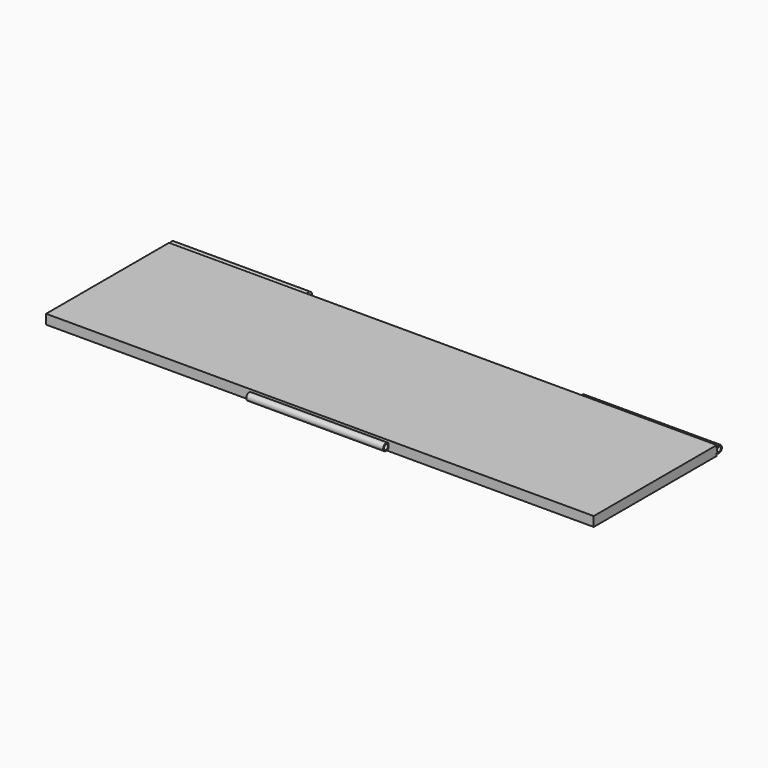
from build123d import *

# Parameters (mm, degrees)
F0_W     = 1447.8
F0_H     = 406.4
F6_DEPTH = 12.7
F1_R     = 9.525
F1_R_2   = 6.35
F7_DEPTH = 180.975
F5_R     = 9.525
F5_R_2   = 6.35
F8_DEPTH = 361.95
F4_R     = 12.7
F4_R_2   = 6.35
F9_DEPTH = 361.95


with BuildPart() as f6:
    # F0 (on Top) → F6 (new body, symmetric)
    with BuildSketch(Plane.XY):
        Rectangle(F0_W, F0_H)
    extrude(amount=F6_DEPTH, both=True)

    # F1 (on Right) → F7 (join, symmetric)
    with BuildSketch(Plane.YZ):
        with Locations((-210.82, 0)):
            Circle(F1_R)
        with Locations((-210.82, 0)):
            Circle(F1_R_2, mode=Mode.SUBTRACT)
    extrude(amount=F7_DEPTH, both=True)

    # F5 (on offset) → F8 (join)
    with BuildSketch(Plane.YZ.offset(361.95)):
        with Locations((210.82, 0)):
            Circle(F5_R)
        with Locations((210.82, 0)):
            Circle(F5_R_2, mode=Mode.SUBTRACT)
    extrude(amount=F8_DEPTH)

    # F4 (on offset) → F9 (join)
    with BuildSketch(Plane.YZ.offset(-361.696)):
        with Locations((210.82, 0)):
            Circle(F4_R)
        with Locations((210.82, 0)):
            Circle(F4_R_2, mode=Mode.SUBTRACT)
    extrude(amount=-F9_DEPTH)


solid = f6.part
